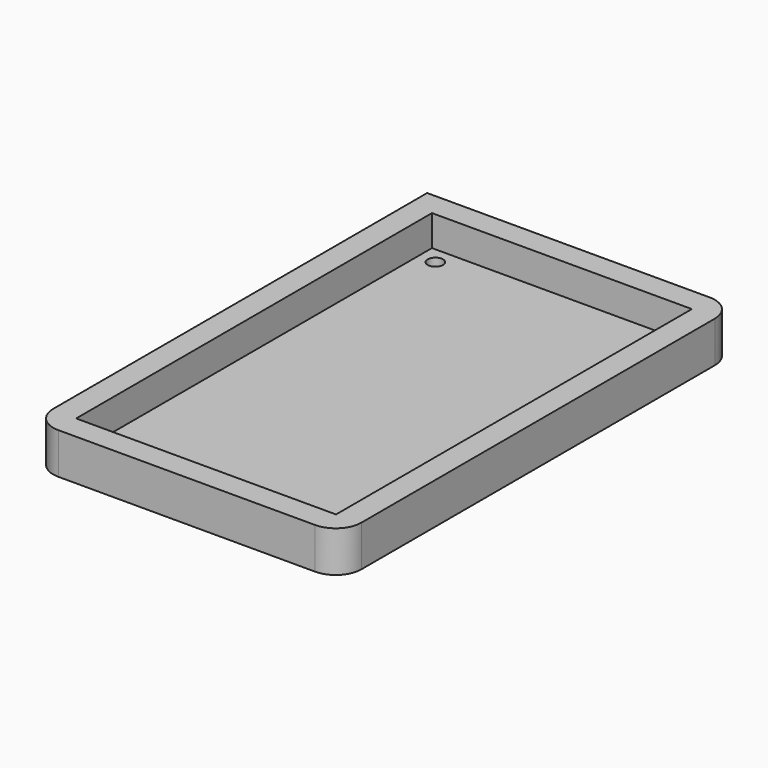
from build123d import *

# Parameters (mm, degrees)
F0_R     = 1.5
F1_DEPTH = 6
F2_W     = 50.6
F2_H     = 86.6
F2_R     = 1.5
F3_DEPTH = 6
F4_R     = 1.5
F5_DEPTH = 2


with BuildPart() as f1:
    # F0 (on Top) → F1 (new body)
    with BuildSketch(Plane.XY):
        with BuildLine():
            Line((-25, -48), (25, -48))
            ThreePointArc((25, -48), (28.535534, -46.535534), (30, -43))
            Line((30, -43), (30, 43))
            ThreePointArc((30, 43), (28.535534, 46.535534), (25, 48))
            Line((25, 48), (-27, 48))
            Line((-27, 48), (-30, 48))
            Line((-30, 48), (-30, 43))
            Line((-30, 43), (-30, -43))
            ThreePointArc((-30, -43), (-28.535534, -46.535534), (-25, -48))
        make_face()
        with Locations((-22, -36.08)):
            Circle(F0_R, mode=Mode.SUBTRACT)
        with Locations((22, -36.08)):
            Circle(F0_R, mode=Mode.SUBTRACT)
        with Locations((-22, 40)):
            Circle(F0_R, mode=Mode.SUBTRACT)
        with Locations((22, 40)):
            Circle(F0_R, mode=Mode.SUBTRACT)
    extrude(amount=F1_DEPTH)

    # F2 (on face) → F3 (cut)
    with BuildSketch(Plane.XY.offset(6)):
        Rectangle(F2_W, F2_H)
        with Locations((-22, -36.08)):
            Circle(F2_R, mode=Mode.SUBTRACT)
        with Locations((22, -36.08)):
            Circle(F2_R, mode=Mode.SUBTRACT)
        with Locations((-22, 40)):
            Circle(F2_R, mode=Mode.SUBTRACT)
        with Locations((22, 40)):
            Circle(F2_R, mode=Mode.SUBTRACT)
    extrude(amount=-F3_DEPTH, mode=Mode.SUBTRACT)

    # F4 (on face) → F5 (join)
    with BuildSketch(Plane(origin=(0, 0, 0), x_dir=(1, 0, 0), z_dir=(0, 0, -1))):
        with BuildLine():
            Line((-30, 43), (-30, -48))
            Line((-30, -48), (25, -48))
            ThreePointArc((25, -48), (28.535534, -46.535534), (30, -43))
            Line((30, -43), (30, 43))
            ThreePointArc((30, 43), (28.535534, 46.535534), (25, 48))
            Line((25, 48), (-25, 48))
            ThreePointArc((-25, 48), (-28.535534, 46.535534), (-30, 43))
        make_face()
        with Locations((-22, -40)):
            Circle(F4_R, mode=Mode.SUBTRACT)
        with Locations((22, -40)):
            Circle(F4_R, mode=Mode.SUBTRACT)
        with Locations((-22, 36.08)):
            Circle(F4_R, mode=Mode.SUBTRACT)
        with Locations((22, 36.08)):
            Circle(F4_R, mode=Mode.SUBTRACT)
    extrude(amount=F5_DEPTH)


solid = f1.part
